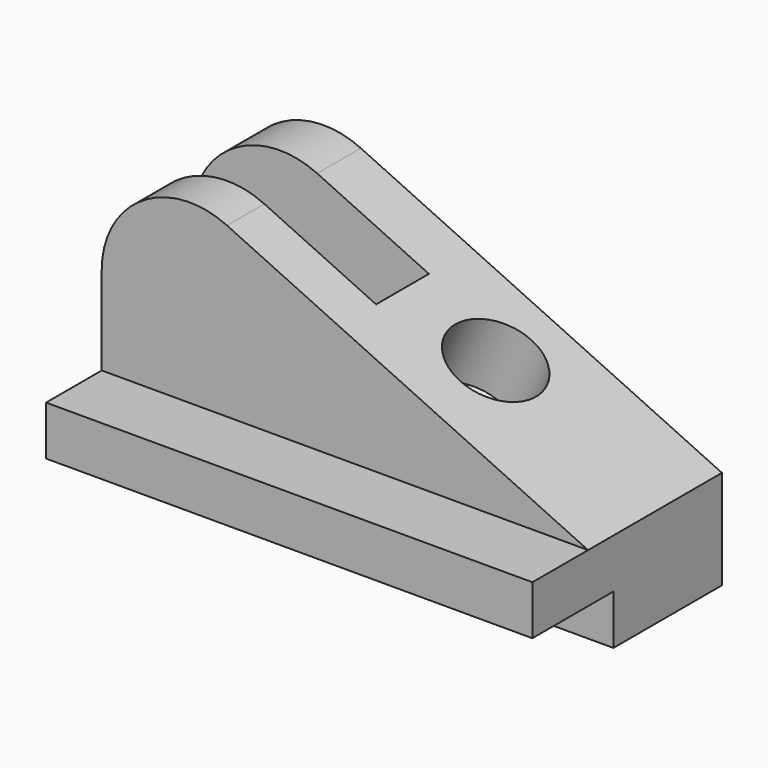
from build123d import *

# Parameters (mm, degrees)
F0_W     = 140.2715
F0_H     = 14.3383389879
F0_H_2   = 14.224
F1_DEPTH = 68.326
F2_W     = 29.21
F2_H     = 14.3383389879
F3_DEPTH = 140.2725
F4_W     = 47.3744553204
F4_H     = 60.4247975121
F5_DEPTH = 140.2725
F8_DEPTH = 19.05


with BuildPart() as f1:
    # F0 (on Front) → F1 (new body)
    with BuildSketch(Plane.XZ):
        with Locations((-16.5940149384, -7.1691694939)):
            Rectangle(F0_W, F0_H)
        with Locations((-16.5940149384, 7.112)):
            Rectangle(F0_W, F0_H_2)
        with BuildLine():
            Line((-86.7297649384, 39.7636610121), (-86.7297649384, 14.224))
            Line((-86.7297649384, 14.224), (53.5417350616, 14.224))
            Line((53.5417350616, 14.224), (-50.5952610901, 62.7838788028))
            ThreePointArc((-50.5952610901, 62.7838788028), (-74.9771749904, 61.1858037358), (-86.7297649384, 39.7636610121))
        make_face()
    extrude(amount=F1_DEPTH)

    # F2 (on face) → F3 (cut, through all)
    with BuildSketch(Plane.YZ.offset(53.5417350616)):
        with Locations((-53.721, -7.1691694939)):
            Rectangle(F2_W, F2_H)
    extrude(amount=-F3_DEPTH, mode=Mode.SUBTRACT)

    # F4 (on face) → F5 (cut, through all)
    with BuildSketch(Plane.YZ.offset(53.5417350616)):
        with Locations((-71.9472276602, 44.436398756)):
            Rectangle(F4_W, F4_H)
    extrude(amount=-F5_DEPTH, mode=Mode.SUBTRACT)

    # F7 (on offset) → F8 (cut)
    with BuildSketch(Plane.XZ.offset(15.748)):
        Polygon((-29.5870655151, 23.7108610121), (-8.6876207146, 68.5298650214), (-100.3249382806, 74.6821943388), (-100.3249382806, 23.7108610121), align=None)
    extrude(amount=F8_DEPTH, mode=Mode.SUBTRACT)

    # F10 (on offset) → F11 (revolve, cut)
    with BuildSketch(Plane.XZ.offset(22.225)):
        Polygon((-5.9485983328, 10.5759030094), (11.6252099843, 48.2630565653), (0, 53.6839810086), (-14.3165883004, 22.9819583202), align=None)
    revolve(axis=Axis((2.8383058257, -22.225, 29.4194797873), (-0.4226182617, 0, -0.906307787)), mode=Mode.SUBTRACT)


solid = f1.part
